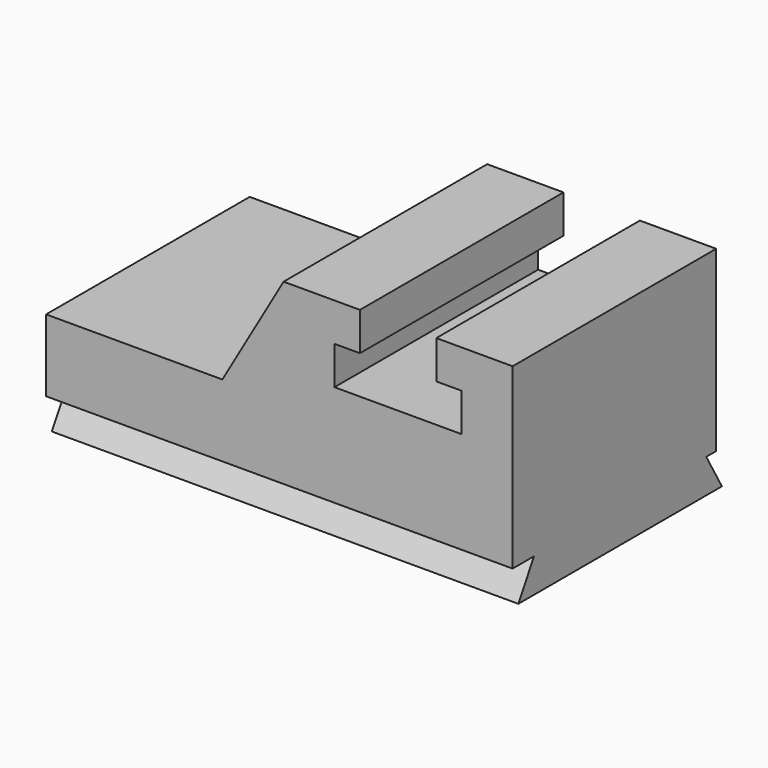
from build123d import *

# Parameters (mm, degrees)
F1_DEPTH = 1524
F3_DEPTH = 2794


with BuildPart() as f1:
    # F0 (on Front) → F1 (new body)
    with BuildSketch(Plane.XZ):
        Polygon((-146.880522, 356.717303), (-146.880522, -75.082697), (2647.119478, -75.082697), (2647.119478, 991.717303), (2189.919478, 991.717303), (2189.919478, 763.117303), (2342.319478, 763.117303), (2342.319478, 534.517303), (1580.319478, 534.517303), (1580.319478, 763.117303), (1732.719478, 763.117303), (1732.719478, 991.717303), (1275.519478, 991.717303), (908.902057, 356.717303), align=None)
    extrude(amount=F1_DEPTH)

    # F2 (on face) → F3 (join)
    with BuildSketch(Plane(origin=(-146.880522, 0, 0), x_dir=(0, -1, 0), z_dir=(-1, 0, 0))):
        Polygon((-42.879277, -278.282697), (1481.120723, -278.282697), (1363.803148, -75.082697), (74.438298, -75.082697), align=None)
    extrude(amount=-F3_DEPTH)


solid = f1.part
